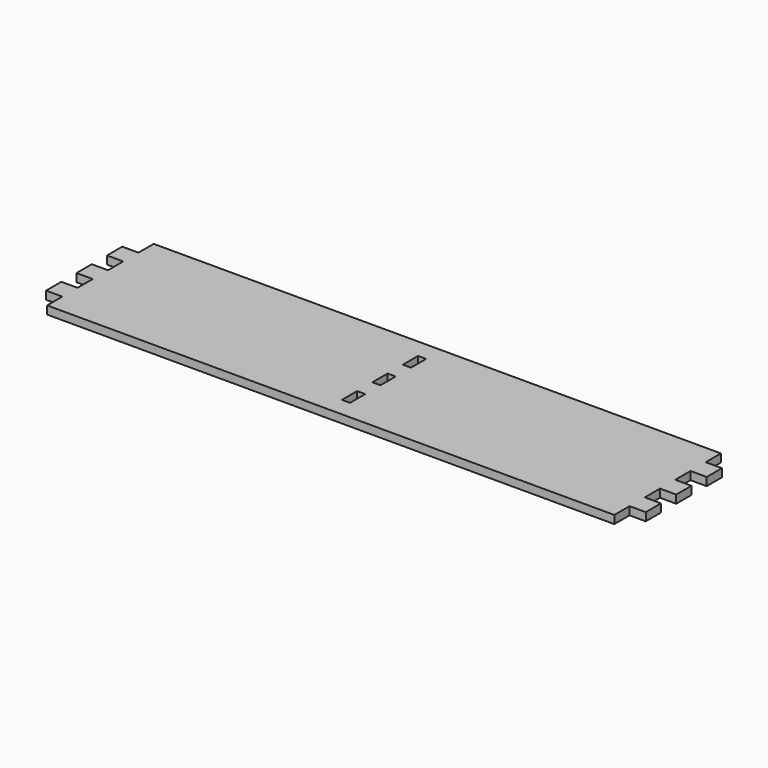
from build123d import *

# Parameters (mm, degrees)
F0_W     = 6.1849
F0_H     = 14.51356
F0_H_2   = 14.51864
F1_DEPTH = 6.1849


with BuildPart() as f1:
    # F0 (on Top) → F1 (new body)
    with BuildSketch(Plane.XY):
        Polygon((-3.09245, -50.8), (216.2302, -50.8), (216.2302, -36.28644), (222.4151, -36.28644), (222.4151, -21.77288), (216.2302, -21.77288), (216.2302, -7.25932), (222.4151, -7.25932), (222.4151, 7.25932), (216.2302, 7.25932), (216.2302, 21.77288), (228.6, 21.77288), (222.4151, 36.28644), (216.2302, 36.28644), (216.2302, 50.8), (-3.09245, 50.8), (-216.2302, 50.8), (-216.2302, 36.28644), (-222.4151, 36.28644), (-228.6, 36.28644), (-228.6, 21.77288), (-216.2302, 21.77288), (-216.2302, 7.25932), (-222.4151, 7.25932), (-222.4151, -7.25932), (-216.2302, -7.25932), (-216.2302, -21.77288), (-222.4151, -21.77288), (-222.4151, -36.28644), (-216.2302, -36.28644), (-216.2302, -50.8), align=None)
        with Locations((0, -29.02966)):
            Rectangle(F0_W, F0_H, mode=Mode.SUBTRACT)
        Rectangle(F0_W, F0_H_2, mode=Mode.SUBTRACT)
        with Locations((0, 29.02966)):
            Rectangle(F0_W, F0_H, mode=Mode.SUBTRACT)
        with Locations((225.50755, -29.02966)):
            Rectangle(F0_W, F0_H)
        with Locations((-225.50755, -29.02966)):
            Rectangle(F0_W, F0_H)
        with Locations((225.50755, 0)):
            Rectangle(F0_W, F0_H_2)
        with Locations((-225.50755, 0)):
            Rectangle(F0_W, F0_H_2)
        Polygon((222.4151, 36.28644), (228.6, 21.77288), (228.6, 36.28644), align=None)
    extrude(amount=F1_DEPTH)


solid = f1.part
